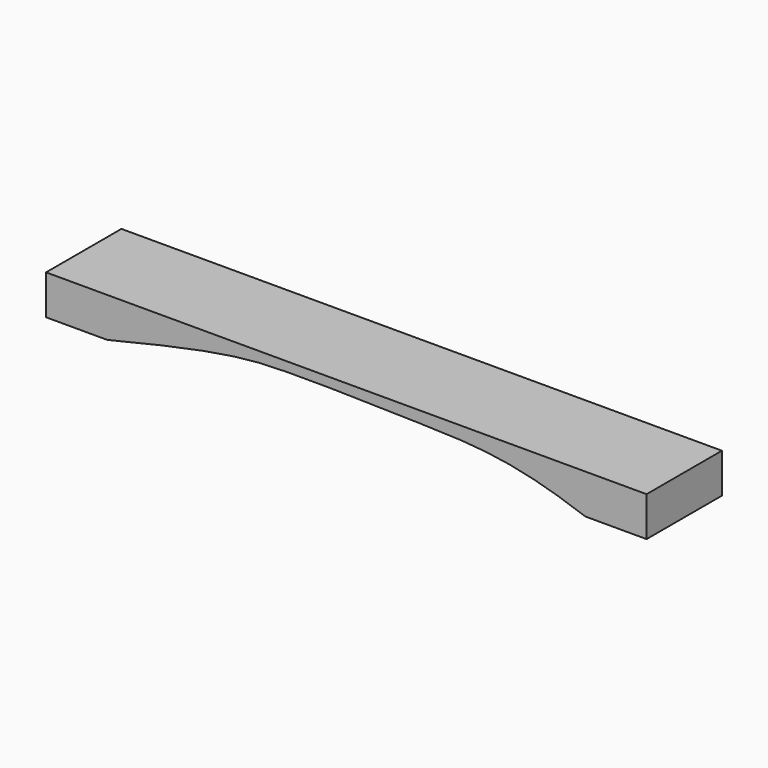
from build123d import *

# Parameters (mm, degrees)
BAR_DEPTH = 69


with BuildPart() as part:
    # Sketch → Bar (new body)
    with BuildSketch(Plane.XZ):
        with BuildLine():
            Line((44.78, 0), (0, 0))
            Line((0, 0), (0, 29))
            Line((0, 29), (440, 29))
            Line((440, 29), (440, 0))
            Line((440, 0), (395.22, 0))
            add(Edge.make_bspline(
                [(395.22, 0), (343.71, 18.63), (284.82, 20.42), (168.2, 23.47), (126.8, 20.13), (44.78, 0)],
                knots=[0, 0, 0, 0, 0.333333, 0.666667, 1, 1, 1, 1], degree=3))
        make_face()
    extrude(amount=BAR_DEPTH)


solid = part.part
